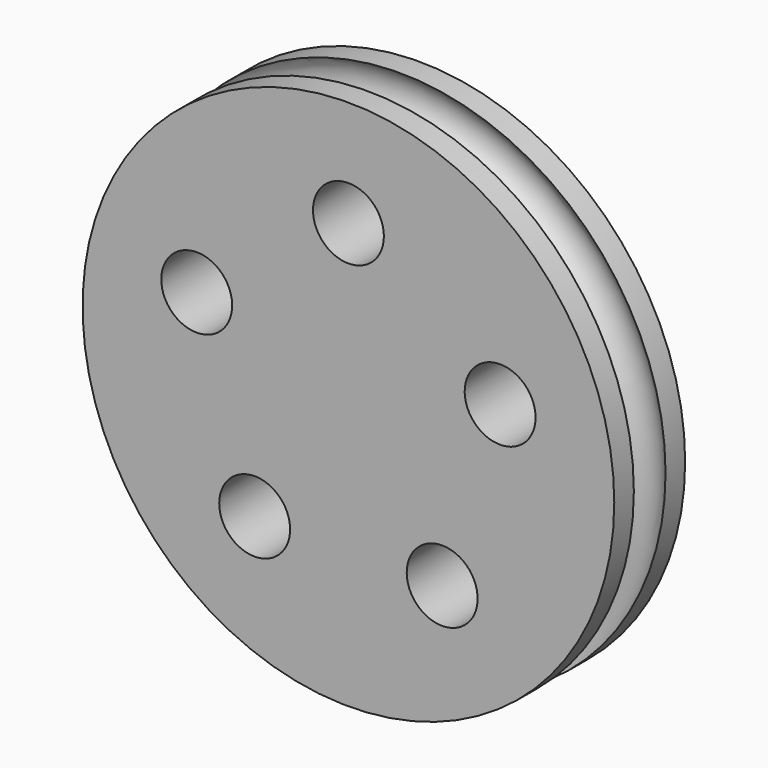
from build123d import *

# Parameters (mm, degrees)
SKETCH003_R        = 1.5
SKETCH_R           = 15
PAD_DEPTH          = 2.5
SKETCH005_R        = 2
POCKET001_DEPTH    = 90.441037
POLARPATTERN_COUNT = 5


with BuildPart() as body001:
    # AdditivePipe: sweep along a path in Sketch002
    with BuildLine(Plane.XZ) as additivepipe_path:
        CenterArc((0, 0), 9, 0, 360)
    # Sketch003 → AdditivePipe (sweep)
    with BuildSketch(Plane.XY):
        with Locations((-14, 0)):
            Circle(SKETCH003_R)
    sweep(path=additivepipe_path.line)


with BuildPart() as cut:
    # Sketch → Pad (new body, symmetric)
    with BuildSketch(Plane.XZ):
        Circle(SKETCH_R)
    extrude(amount=PAD_DEPTH, both=True)

    # Sketch005 → Pocket001 (cut, through all)
    with BuildSketch(Plane.XZ.offset(2.5)):
        with Locations((0, 9)):
            Circle(SKETCH005_R)
    pocket001 = extrude(amount=-POCKET001_DEPTH, mode=Mode.SUBTRACT)

    # PolarPattern: Pocket001 ×5 about axis
    polarpattern_axis = Axis((0, -2.5, 0), (0, -1, 0))
    for i in range(1, POLARPATTERN_COUNT):
        add(pocket001.rotate(polarpattern_axis, i * 360 / POLARPATTERN_COUNT), mode=Mode.SUBTRACT)

    # Cut: cut Body001
    add(body001.part, mode=Mode.SUBTRACT)


solid = cut.part
